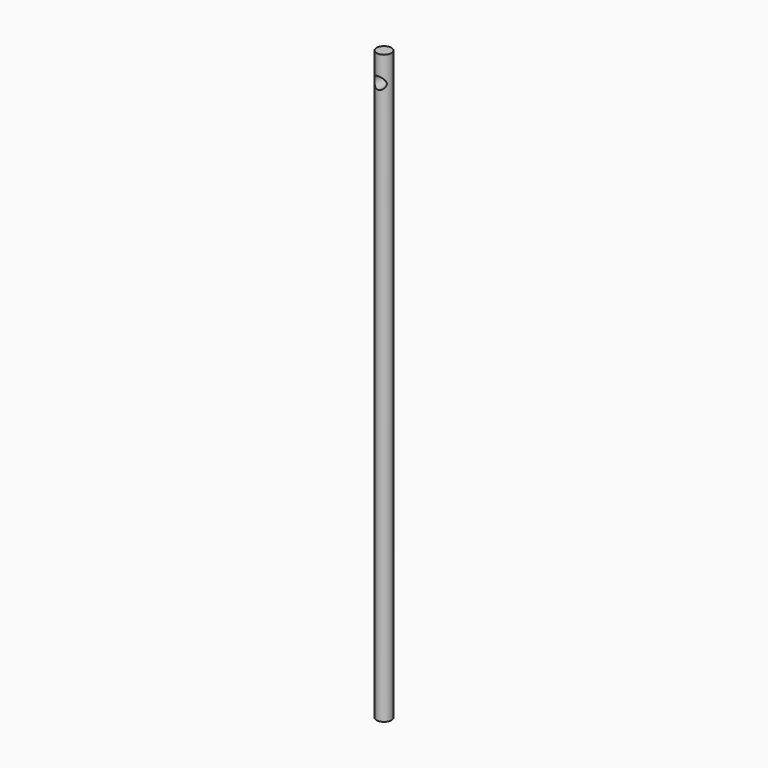
from build123d import *

# Parameters (mm, degrees)
F0_R     = 2.5
F1_DEPTH = 100
F2_R     = 2.071976
F3_DEPTH = 12.7


with BuildPart() as f1:
    # F0 (on Top) → F1 (new body, symmetric)
    with BuildSketch(Plane.XY):
        Circle(F0_R)
    extrude(amount=F1_DEPTH, both=True)

    # F2 (on Front) → F3 (cut, symmetric)
    with BuildSketch(Plane.XZ):
        with Locations((0, 91.259167)):
            Circle(F2_R)
    extrude(amount=F3_DEPTH, both=True, mode=Mode.SUBTRACT)


solid = f1.part
